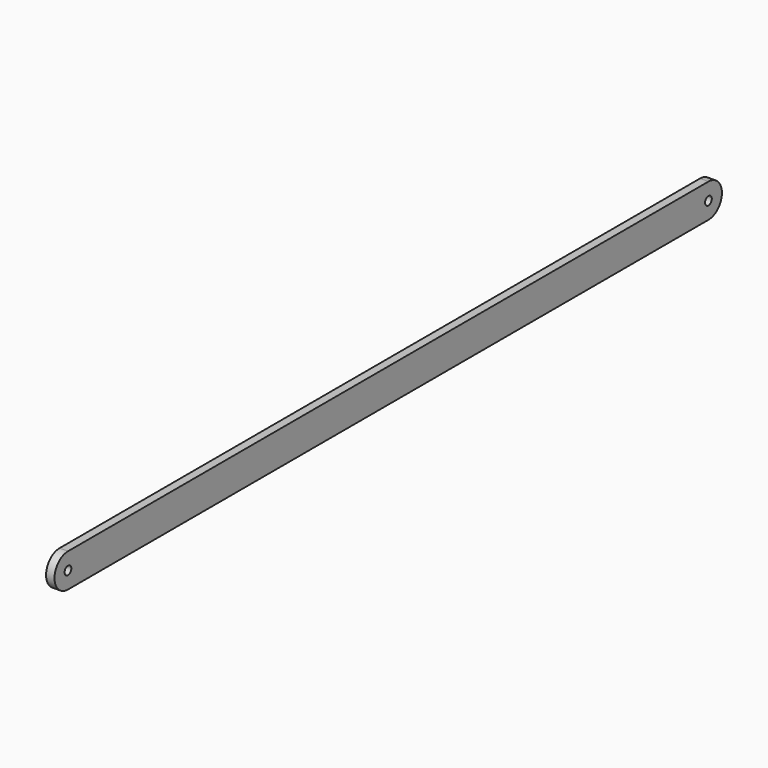
from build123d import *

# Parameters (mm, degrees)
F0_R     = 1.6
F1_DEPTH = 1.6


with BuildPart() as f1:
    # F0 (on Right) → F1 (new body, symmetric)
    with BuildSketch(Plane.YZ):
        with BuildLine():
            Line((152.069, 12.8), (-152.069, 12.8))
            ThreePointArc((-152.069, 12.8), (-158.469, 6.4), (-152.069, 0))
            Line((-152.069, 0), (152.069, 0))
            ThreePointArc((152.069, 0), (158.469, 6.4), (152.069, 12.8))
        make_face()
        with Locations((-152.069, 6.4)):
            Circle(F0_R, mode=Mode.SUBTRACT)
        with Locations((152.069, 6.4)):
            Circle(F0_R, mode=Mode.SUBTRACT)
    extrude(amount=F1_DEPTH, both=True)


solid = f1.part
